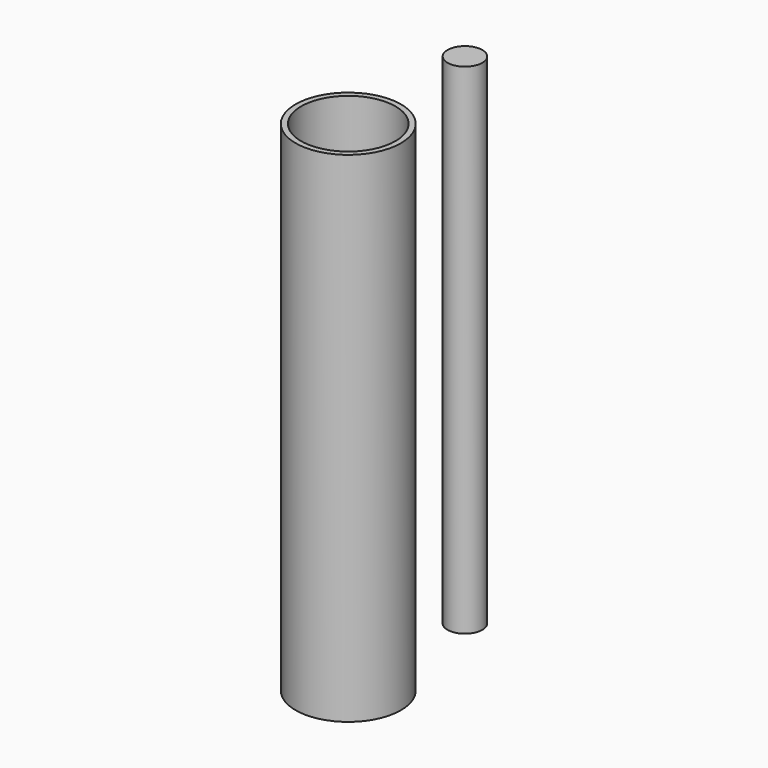
from build123d import *

# Parameters (mm, degrees)
F0_R      = 3.9878
F1_DEPTH  = 107.95
F0_R_2    = 12.065
F0_R_3    = 10.795
F1_FACE_R = 3.9878
F2_DEPTH  = 114.3


with BuildPart() as f1:
    # F0 (on Top) → F1 (new body)
    with BuildSketch(Plane.XY):
        with Locations((0, 22.2584257233)):
            Circle(F0_R)
    extrude(amount=F1_DEPTH)

    # F0 (on Top) + F1_face (on face) → F2 (join)
    with BuildSketch(Plane.XY):
        with Locations((0, -11.1292128617)):
            Circle(F0_R_2)
        with Locations((0, -11.1292128617)):
            Circle(F0_R_3, mode=Mode.SUBTRACT)
        with Locations((0, 22.2584257233)):
            Circle(F0_R)
    with BuildSketch(Plane(origin=(0, 22.2584257233, 0), x_dir=(1, 0, 0), z_dir=(0, 0, -1))):
        Circle(F1_FACE_R)
    extrude(amount=F2_DEPTH, dir=(0, 0, 1))


solid = f1.part
